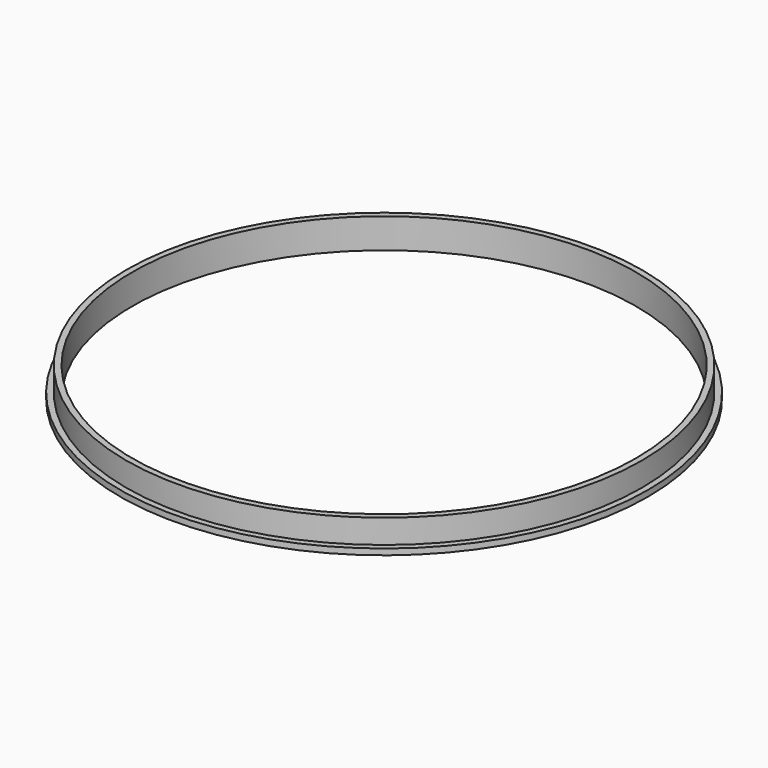
from build123d import *

# Parameters (mm, degrees)
SKETCH_R     = 22
PAD_DEPTH    = 0.5
SKETCH001_R  = 21.5
PAD001_DEPTH = 2
SKETCH002_R  = 21
POCKET_DEPTH = 5


with BuildPart() as part:
    # Sketch → Pad (new body)
    with BuildSketch(Plane.XY):
        Circle(SKETCH_R)
    extrude(amount=PAD_DEPTH)

    # Sketch001 (on Face3 of Pad) → Pad001 (join)
    with BuildSketch(Plane.XY.offset(0.5)):
        Circle(SKETCH001_R)
    extrude(amount=PAD001_DEPTH)

    # Sketch002 (on Face5 of Pad001) → Pocket (cut)
    with BuildSketch(Plane.XY.offset(2.5)):
        Circle(SKETCH002_R)
    extrude(amount=-POCKET_DEPTH, mode=Mode.SUBTRACT)


solid = part.part
